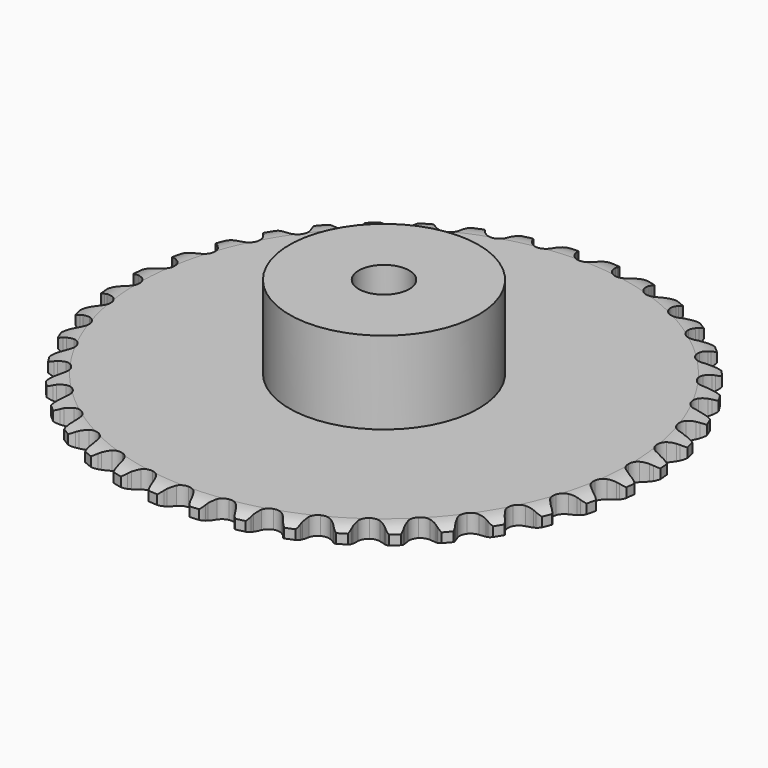
from build123d import *

# Parameters (mm, degrees)
PAD_DEPTH         = 2.9
SKETCH001_R       = 15
PAD001_DEPTH      = 16
SKETCH002_R       = 4
POCKET_DEPTH      = 0.001
POCKET_DEPTH_BACK = 16.001


with BuildPart() as part:
    # Sprocket → Pad (new body)
    with BuildSketch(Plane.XY):
        with BuildLine():
            ThreePointArc((-3.339288, 42.429673), (-2.597272, 41.829726), (-2.116117, 41.005702))
            Line((-2.116117, 41.005702), (-1.955236, 40.561273))
            ThreePointArc((-1.955236, 40.561273), (-1.699458, 39.988133), (-1.363623, 39.457918))
            ThreePointArc((-1.363623, 39.457918), (-0.763524, 38.952141), (0, 38.770596))
            ThreePointArc((0, 38.770596), (0.763524, 38.952141), (1.363623, 39.457918))
            ThreePointArc((1.363623, 39.457918), (1.699458, 39.988133), (1.955236, 40.561273))
            Line((1.955236, 40.561273), (2.116117, 41.005702))
            ThreePointArc((2.116117, 41.005702), (2.597272, 41.829726), (3.339288, 42.429673))
            ThreePointArc((3.339288, 42.429673), (3.978315, 41.721035), (4.324641, 40.831888))
            Line((4.324641, 40.831888), (4.414017, 40.367763))
            ThreePointArc((4.414017, 40.367763), (4.576987, 39.761666), (4.825744, 39.185444))
            ThreePointArc((4.825744, 39.185444), (5.339333, 38.592017), (6.065057, 38.293266))
            ThreePointArc((6.065057, 38.293266), (6.847582, 38.353134), (7.519412, 38.758808))
            Line((7.519412, 38.758808), (8.276345, 39.75603))
            ThreePointArc((8.276345, 39.75603), (8.384915, 39.96604), (8.50477, 40.169821))
            ThreePointArc((8.50477, 40.169821), (9.108906, 40.908429), (9.935639, 41.384914))
            ThreePointArc((9.935639, 41.384914), (10.455943, 40.585034), (10.658912, 39.652657))
            Line((10.658912, 39.652657), (10.674583, 39.180265))
            ThreePointArc((10.674583, 39.180265), (10.740732, 38.556136), (10.896285, 37.948093))
            ThreePointArc((10.896285, 37.948093), (11.310719, 37.28163), (11.980773, 36.873028))
            ThreePointArc((11.980773, 36.873028), (12.763029, 36.809746), (13.49005, 37.105328))
            Line((13.49005, 37.105328), (14.393663, 37.971862))
            ThreePointArc((14.393663, 37.971862), (14.533749, 38.162302), (14.684006, 38.344824))
            ThreePointArc((14.684006, 38.344824), (15.396249, 38.979832), (16.287341, 39.32112))
            ThreePointArc((16.287341, 39.32112), (16.676112, 38.449695), (16.730725, 37.497046))
            Line((16.730725, 37.497046), (16.672304, 37.028018))
            ThreePointArc((16.672304, 37.028018), (16.640004, 36.401225), (16.698524, 35.776335))
            ThreePointArc((16.698524, 35.776335), (17.003597, 35.053245), (17.601482, 34.544854))
            ThreePointArc((17.601482, 34.544854), (18.364207, 34.359979), (19.128517, 34.538191))
            Line((19.128517, 34.538191), (20.156561, 35.252701))
            ThreePointArc((20.156561, 35.252701), (20.324714, 35.418881), (20.501674, 35.575651))
            ThreePointArc((20.501674, 35.575651), (21.304484, 36.091422), (22.237996, 36.289111))
            ThreePointArc((22.237996, 36.289111), (22.485659, 35.367597), (22.390572, 34.418133))
            Line((22.390572, 34.418133), (22.259499, 33.964019))
            ThreePointArc((22.259499, 33.964019), (22.129544, 33.349995), (22.089589, 32.723644))
            ThreePointArc((22.089589, 32.723644), (22.27779, 31.961733), (22.788785, 31.366071))
            ThreePointArc((22.788785, 31.366071), (23.513198, 31.064156), (24.295976, 31.120609))
            Line((24.295976, 31.120609), (25.423138, 31.6655))
            ThreePointArc((25.423138, 31.6655), (25.615217, 31.80333), (25.814522, 31.930488))
            ThreePointArc((25.814522, 31.930488), (26.688133, 32.314321), (27.641077, 32.363543))
            ThreePointArc((27.641077, 32.363543), (27.741534, 31.414631), (27.499089, 30.491731))
            Line((27.499089, 30.491731), (27.298591, 30.063712))
            ThreePointArc((27.298591, 30.063712), (27.074181, 29.477578), (26.936735, 28.865189))
            ThreePointArc((26.936735, 28.865189), (27.00343, 28.083217), (27.414951, 27.414951))
            ThreePointArc((27.414951, 27.414951), (28.083217, 27.00343), (28.865189, 26.936735))
            Line((28.865189, 26.936735), (30.063712, 27.298591))
            ThreePointArc((30.063712, 27.298591), (30.274988, 27.404676), (30.491731, 27.499089))
            ThreePointArc((30.491731, 27.499089), (31.414631, 27.741534), (32.363543, 27.641077))
            ThreePointArc((32.363543, 27.641077), (32.314321, 26.688133), (31.930488, 25.814522))
            Line((31.930488, 25.814522), (31.6655, 25.423138))
            ThreePointArc((31.6655, 25.423138), (31.352163, 24.879325), (31.120609, 24.295976))
            ThreePointArc((31.120609, 24.295976), (31.064156, 23.513198), (31.366071, 22.788785))
            ThreePointArc((31.366071, 22.788785), (31.961733, 22.27779), (32.723644, 22.089589))
            Line((32.723644, 22.089589), (33.964019, 22.259499))
            ThreePointArc((33.964019, 22.259499), (34.189288, 22.331227), (34.418133, 22.390572))
            ThreePointArc((34.418133, 22.390572), (35.367597, 22.485659), (36.289111, 22.237996))
            ThreePointArc((36.289111, 22.237996), (36.091422, 21.304484), (35.575651, 20.501674))
            Line((35.575651, 20.501674), (35.252701, 20.156561))
            ThreePointArc((35.252701, 20.156561), (34.858149, 19.668461), (34.538191, 19.128517))
            ThreePointArc((34.538191, 19.128517), (34.359979, 18.364207), (34.544854, 17.601482))
            ThreePointArc((34.544854, 17.601482), (35.053245, 17.003597), (35.776335, 16.698524))
            Line((35.776335, 16.698524), (37.028018, 16.672304))
            ThreePointArc((37.028018, 16.672304), (37.261735, 16.70791), (37.497046, 16.730725))
            ThreePointArc((37.497046, 16.730725), (38.449695, 16.676112), (39.32112, 16.287341))
            ThreePointArc((39.32112, 16.287341), (38.979832, 15.396249), (38.344824, 14.684006))
            Line((38.344824, 14.684006), (37.971862, 14.393663))
            ThreePointArc((37.971862, 14.393663), (37.505813, 13.973293), (37.105328, 13.49005))
            ThreePointArc((37.105328, 13.49005), (36.809746, 12.763029), (36.873028, 11.980773))
            ThreePointArc((36.873028, 11.980773), (37.28163, 11.310719), (37.948093, 10.896285))
            Line((37.948093, 10.896285), (39.180265, 10.674583))
            ThreePointArc((39.180265, 10.674583), (39.416674, 10.673188), (39.652657, 10.658912))
            ThreePointArc((39.652657, 10.658912), (40.585034, 10.455943), (41.384914, 9.935639))
            ThreePointArc((41.384914, 9.935639), (40.908429, 9.108906), (40.169821, 8.50477))
            Line((40.169821, 8.50477), (39.75603, 8.276345))
            ThreePointArc((39.75603, 8.276345), (39.229959, 7.934057), (38.758808, 7.519412))
            ThreePointArc((38.758808, 7.519412), (38.353134, 6.847582), (38.293266, 6.065057))
            ThreePointArc((38.293266, 6.065057), (38.592017, 5.339333), (39.185444, 4.825744))
            Line((39.185444, 4.825744), (40.367763, 4.414017))
            ThreePointArc((40.367763, 4.414017), (40.601044, 4.375657), (40.831888, 4.324641))
            ThreePointArc((40.831888, 4.324641), (41.721035, 3.978315), (42.429673, 3.339288))
            ThreePointArc((42.429673, 3.339288), (41.829726, 2.597272), (41.005702, 2.116117))
            Line((41.005702, 2.116117), (40.561273, 1.955236))
            ThreePointArc((40.561273, 1.955236), (39.988133, 1.699458), (39.457918, 1.363623))
            ThreePointArc((39.457918, 1.363623), (38.952141, 0.763524), (38.770596, 0))
            ThreePointArc((38.770596, 0), (38.952141, -0.763524), (39.457918, -1.363623))
            Line((39.457918, -1.363623), (40.561273, -1.955236))
            ThreePointArc((40.561273, -1.955236), (40.785682, -2.029617), (41.005702, -2.116117))
            ThreePointArc((41.005702, -2.116117), (41.829726, -2.597272), (42.429673, -3.339288))
            ThreePointArc((42.429673, -3.339288), (41.721035, -3.978315), (40.831888, -4.324641))
            Line((40.831888, -4.324641), (40.367763, -4.414017))
            ThreePointArc((40.367763, -4.414017), (39.761666, -4.576987), (39.185444, -4.825744))
            ThreePointArc((39.185444, -4.825744), (38.592017, -5.339333), (38.293266, -6.065057))
            ThreePointArc((38.293266, -6.065057), (38.353134, -6.847582), (38.758808, -7.519412))
            Line((38.758808, -7.519412), (39.75603, -8.276345))
            ThreePointArc((39.75603, -8.276345), (39.96604, -8.384915), (40.169821, -8.50477))
            ThreePointArc((40.169821, -8.50477), (40.908429, -9.108906), (41.384914, -9.935639))
            ThreePointArc((41.384914, -9.935639), (40.585034, -10.455943), (39.652657, -10.658912))
            Line((39.652657, -10.658912), (39.180265, -10.674583))
            ThreePointArc((39.180265, -10.674583), (38.556136, -10.740732), (37.948093, -10.896285))
            ThreePointArc((37.948093, -10.896285), (37.28163, -11.310719), (36.873028, -11.980773))
            ThreePointArc((36.873028, -11.980773), (36.809746, -12.763029), (37.105328, -13.49005))
            Line((37.105328, -13.49005), (37.971862, -14.393663))
            ThreePointArc((37.971862, -14.393663), (38.162302, -14.533749), (38.344824, -14.684006))
            ThreePointArc((38.344824, -14.684006), (38.979832, -15.396249), (39.32112, -16.287341))
            ThreePointArc((39.32112, -16.287341), (38.449695, -16.676112), (37.497046, -16.730725))
            Line((37.497046, -16.730725), (37.028018, -16.672304))
            ThreePointArc((37.028018, -16.672304), (36.401225, -16.640004), (35.776335, -16.698524))
            ThreePointArc((35.776335, -16.698524), (35.053245, -17.003597), (34.544854, -17.601482))
            ThreePointArc((34.544854, -17.601482), (34.359979, -18.364207), (34.538191, -19.128517))
            Line((34.538191, -19.128517), (35.252701, -20.156561))
            ThreePointArc((35.252701, -20.156561), (35.418881, -20.324714), (35.575651, -20.501674))
            ThreePointArc((35.575651, -20.501674), (36.091422, -21.304484), (36.289111, -22.237996))
            ThreePointArc((36.289111, -22.237996), (35.367597, -22.485659), (34.418133, -22.390572))
            Line((34.418133, -22.390572), (33.964019, -22.259499))
            ThreePointArc((33.964019, -22.259499), (33.349995, -22.129544), (32.723644, -22.089589))
            ThreePointArc((32.723644, -22.089589), (31.961733, -22.27779), (31.366071, -22.788785))
            ThreePointArc((31.366071, -22.788785), (31.064156, -23.513198), (31.120609, -24.295976))
            Line((31.120609, -24.295976), (31.6655, -25.423138))
            ThreePointArc((31.6655, -25.423138), (31.80333, -25.615217), (31.930488, -25.814522))
            ThreePointArc((31.930488, -25.814522), (32.314321, -26.688133), (32.363543, -27.641077))
            ThreePointArc((32.363543, -27.641077), (31.414631, -27.741534), (30.491731, -27.499089))
            Line((30.491731, -27.499089), (30.063712, -27.298591))
            ThreePointArc((30.063712, -27.298591), (29.477578, -27.074181), (28.865189, -26.936735))
            ThreePointArc((28.865189, -26.936735), (28.083217, -27.00343), (27.414951, -27.414951))
            ThreePointArc((27.414951, -27.414951), (27.00343, -28.083217), (26.936735, -28.865189))
            Line((26.936735, -28.865189), (27.298591, -30.063712))
            ThreePointArc((27.298591, -30.063712), (27.404676, -30.274988), (27.499089, -30.491731))
            ThreePointArc((27.499089, -30.491731), (27.741534, -31.414631), (27.641077, -32.363543))
            ThreePointArc((27.641077, -32.363543), (26.688133, -32.314321), (25.814522, -31.930488))
            Line((25.814522, -31.930488), (25.423138, -31.6655))
            ThreePointArc((25.423138, -31.6655), (24.879325, -31.352163), (24.295976, -31.120609))
            ThreePointArc((24.295976, -31.120609), (23.513198, -31.064156), (22.788785, -31.366071))
            ThreePointArc((22.788785, -31.366071), (22.27779, -31.961733), (22.089589, -32.723644))
            Line((22.089589, -32.723644), (22.259499, -33.964019))
            ThreePointArc((22.259499, -33.964019), (22.331227, -34.189288), (22.390572, -34.418133))
            ThreePointArc((22.390572, -34.418133), (22.485659, -35.367597), (22.237996, -36.289111))
            ThreePointArc((22.237996, -36.289111), (21.304484, -36.091422), (20.501674, -35.575651))
            Line((20.501674, -35.575651), (20.156561, -35.252701))
            ThreePointArc((20.156561, -35.252701), (19.668461, -34.858149), (19.128517, -34.538191))
            ThreePointArc((19.128517, -34.538191), (18.364207, -34.359979), (17.601482, -34.544854))
            ThreePointArc((17.601482, -34.544854), (17.003597, -35.053245), (16.698524, -35.776335))
            Line((16.698524, -35.776335), (16.672304, -37.028018))
            ThreePointArc((16.672304, -37.028018), (16.70791, -37.261735), (16.730725, -37.497046))
            ThreePointArc((16.730725, -37.497046), (16.676112, -38.449695), (16.287341, -39.32112))
            ThreePointArc((16.287341, -39.32112), (15.396249, -38.979832), (14.684006, -38.344824))
            Line((14.684006, -38.344824), (14.393663, -37.971862))
            ThreePointArc((14.393663, -37.971862), (13.973293, -37.505813), (13.49005, -37.105328))
            ThreePointArc((13.49005, -37.105328), (12.763029, -36.809746), (11.980773, -36.873028))
            ThreePointArc((11.980773, -36.873028), (11.310719, -37.28163), (10.896285, -37.948093))
            Line((10.896285, -37.948093), (10.674583, -39.180265))
            ThreePointArc((10.674583, -39.180265), (10.673188, -39.416674), (10.658912, -39.652657))
            ThreePointArc((10.658912, -39.652657), (10.455943, -40.585034), (9.935639, -41.384914))
            ThreePointArc((9.935639, -41.384914), (9.108906, -40.908429), (8.50477, -40.169821))
            Line((8.50477, -40.169821), (8.276345, -39.75603))
            ThreePointArc((8.276345, -39.75603), (7.934057, -39.229959), (7.519412, -38.758808))
            ThreePointArc((7.519412, -38.758808), (6.847582, -38.353134), (6.065057, -38.293266))
            ThreePointArc((6.065057, -38.293266), (5.339333, -38.592017), (4.825744, -39.185444))
            Line((4.825744, -39.185444), (4.414017, -40.367763))
            ThreePointArc((4.414017, -40.367763), (4.375657, -40.601044), (4.324641, -40.831888))
            ThreePointArc((4.324641, -40.831888), (3.978315, -41.721035), (3.339288, -42.429673))
            ThreePointArc((3.339288, -42.429673), (2.597272, -41.829726), (2.116117, -41.005702))
            Line((2.116117, -41.005702), (1.955236, -40.561273))
            ThreePointArc((1.955236, -40.561273), (1.699458, -39.988133), (1.363623, -39.457918))
            ThreePointArc((1.363623, -39.457918), (0.763524, -38.952141), (0, -38.770596))
            ThreePointArc((0, -38.770596), (-0.763524, -38.952141), (-1.363623, -39.457918))
            Line((-1.363623, -39.457918), (-1.955236, -40.561273))
            ThreePointArc((-1.955236, -40.561273), (-2.029617, -40.785682), (-2.116117, -41.005702))
            ThreePointArc((-2.116117, -41.005702), (-2.597272, -41.829726), (-3.339288, -42.429673))
            ThreePointArc((-3.339288, -42.429673), (-3.978315, -41.721035), (-4.324641, -40.831888))
            Line((-4.324641, -40.831888), (-4.414017, -40.367763))
            ThreePointArc((-4.414017, -40.367763), (-4.576987, -39.761666), (-4.825744, -39.185444))
            ThreePointArc((-4.825744, -39.185444), (-5.339333, -38.592017), (-6.065057, -38.293266))
            ThreePointArc((-6.065057, -38.293266), (-6.847582, -38.353134), (-7.519412, -38.758808))
            Line((-7.519412, -38.758808), (-8.276345, -39.75603))
            ThreePointArc((-8.276345, -39.75603), (-8.384915, -39.96604), (-8.50477, -40.169821))
            ThreePointArc((-8.50477, -40.169821), (-9.108906, -40.908429), (-9.935639, -41.384914))
            ThreePointArc((-9.935639, -41.384914), (-10.455943, -40.585034), (-10.658912, -39.652657))
            Line((-10.658912, -39.652657), (-10.674583, -39.180265))
            ThreePointArc((-10.674583, -39.180265), (-10.740732, -38.556136), (-10.896285, -37.948093))
            ThreePointArc((-10.896285, -37.948093), (-11.310719, -37.28163), (-11.980773, -36.873028))
            ThreePointArc((-11.980773, -36.873028), (-12.763029, -36.809746), (-13.49005, -37.105328))
            Line((-13.49005, -37.105328), (-14.393663, -37.971862))
            ThreePointArc((-14.393663, -37.971862), (-14.533749, -38.162302), (-14.684006, -38.344824))
            ThreePointArc((-14.684006, -38.344824), (-15.396249, -38.979832), (-16.287341, -39.32112))
            ThreePointArc((-16.287341, -39.32112), (-16.676112, -38.449695), (-16.730725, -37.497046))
            Line((-16.730725, -37.497046), (-16.672304, -37.028018))
            ThreePointArc((-16.672304, -37.028018), (-16.640004, -36.401225), (-16.698524, -35.776335))
            ThreePointArc((-16.698524, -35.776335), (-17.003597, -35.053245), (-17.601482, -34.544854))
            ThreePointArc((-17.601482, -34.544854), (-18.364207, -34.359979), (-19.128517, -34.538191))
            Line((-19.128517, -34.538191), (-20.156561, -35.252701))
            ThreePointArc((-20.156561, -35.252701), (-20.324714, -35.418881), (-20.501674, -35.575651))
            ThreePointArc((-20.501674, -35.575651), (-21.304484, -36.091422), (-22.237996, -36.289111))
            ThreePointArc((-22.237996, -36.289111), (-22.485659, -35.367597), (-22.390572, -34.418133))
            Line((-22.390572, -34.418133), (-22.259499, -33.964019))
            ThreePointArc((-22.259499, -33.964019), (-22.129544, -33.349995), (-22.089589, -32.723644))
            ThreePointArc((-22.089589, -32.723644), (-22.27779, -31.961733), (-22.788785, -31.366071))
            ThreePointArc((-22.788785, -31.366071), (-23.513198, -31.064156), (-24.295976, -31.120609))
            Line((-24.295976, -31.120609), (-25.423138, -31.6655))
            ThreePointArc((-25.423138, -31.6655), (-25.615217, -31.80333), (-25.814522, -31.930488))
            ThreePointArc((-25.814522, -31.930488), (-26.688133, -32.314321), (-27.641077, -32.363543))
            ThreePointArc((-27.641077, -32.363543), (-27.741534, -31.414631), (-27.499089, -30.491731))
            Line((-27.499089, -30.491731), (-27.298591, -30.063712))
            ThreePointArc((-27.298591, -30.063712), (-27.074181, -29.477578), (-26.936735, -28.865189))
            ThreePointArc((-26.936735, -28.865189), (-27.00343, -28.083217), (-27.414951, -27.414951))
            ThreePointArc((-27.414951, -27.414951), (-28.083217, -27.00343), (-28.865189, -26.936735))
            Line((-28.865189, -26.936735), (-30.063712, -27.298591))
            ThreePointArc((-30.063712, -27.298591), (-30.274988, -27.404676), (-30.491731, -27.499089))
            ThreePointArc((-30.491731, -27.499089), (-31.414631, -27.741534), (-32.363543, -27.641077))
            ThreePointArc((-32.363543, -27.641077), (-32.314321, -26.688133), (-31.930488, -25.814522))
            Line((-31.930488, -25.814522), (-31.6655, -25.423138))
            ThreePointArc((-31.6655, -25.423138), (-31.352163, -24.879325), (-31.120609, -24.295976))
            ThreePointArc((-31.120609, -24.295976), (-31.064156, -23.513198), (-31.366071, -22.788785))
            ThreePointArc((-31.366071, -22.788785), (-31.961733, -22.27779), (-32.723644, -22.089589))
            Line((-32.723644, -22.089589), (-33.964019, -22.259499))
            ThreePointArc((-33.964019, -22.259499), (-34.189288, -22.331227), (-34.418133, -22.390572))
            ThreePointArc((-34.418133, -22.390572), (-35.367597, -22.485659), (-36.289111, -22.237996))
            ThreePointArc((-36.289111, -22.237996), (-36.091422, -21.304484), (-35.575651, -20.501674))
            Line((-35.575651, -20.501674), (-35.252701, -20.156561))
            ThreePointArc((-35.252701, -20.156561), (-34.858149, -19.668461), (-34.538191, -19.128517))
            ThreePointArc((-34.538191, -19.128517), (-34.359979, -18.364207), (-34.544854, -17.601482))
            ThreePointArc((-34.544854, -17.601482), (-35.053245, -17.003597), (-35.776335, -16.698524))
            Line((-35.776335, -16.698524), (-37.028018, -16.672304))
            ThreePointArc((-37.028018, -16.672304), (-37.261735, -16.70791), (-37.497046, -16.730725))
            ThreePointArc((-37.497046, -16.730725), (-38.449695, -16.676112), (-39.32112, -16.287341))
            ThreePointArc((-39.32112, -16.287341), (-38.979832, -15.396249), (-38.344824, -14.684006))
            Line((-38.344824, -14.684006), (-37.971862, -14.393663))
            ThreePointArc((-37.971862, -14.393663), (-37.505813, -13.973293), (-37.105328, -13.49005))
            ThreePointArc((-37.105328, -13.49005), (-36.809746, -12.763029), (-36.873028, -11.980773))
            ThreePointArc((-36.873028, -11.980773), (-37.28163, -11.310719), (-37.948093, -10.896285))
            Line((-37.948093, -10.896285), (-39.180265, -10.674583))
            ThreePointArc((-39.180265, -10.674583), (-39.416674, -10.673188), (-39.652657, -10.658912))
            ThreePointArc((-39.652657, -10.658912), (-40.585034, -10.455943), (-41.384914, -9.935639))
            ThreePointArc((-41.384914, -9.935639), (-40.908429, -9.108906), (-40.169821, -8.50477))
            Line((-40.169821, -8.50477), (-39.75603, -8.276345))
            ThreePointArc((-39.75603, -8.276345), (-39.229959, -7.934057), (-38.758808, -7.519412))
            ThreePointArc((-38.758808, -7.519412), (-38.353134, -6.847582), (-38.293266, -6.065057))
            ThreePointArc((-38.293266, -6.065057), (-38.592017, -5.339333), (-39.185444, -4.825744))
            Line((-39.185444, -4.825744), (-40.367763, -4.414017))
            ThreePointArc((-40.367763, -4.414017), (-40.601044, -4.375657), (-40.831888, -4.324641))
            ThreePointArc((-40.831888, -4.324641), (-41.721035, -3.978315), (-42.429673, -3.339288))
            ThreePointArc((-42.429673, -3.339288), (-41.829726, -2.597272), (-41.005702, -2.116117))
            Line((-41.005702, -2.116117), (-40.561273, -1.955236))
            ThreePointArc((-40.561273, -1.955236), (-39.988133, -1.699458), (-39.457918, -1.363623))
            ThreePointArc((-39.457918, -1.363623), (-38.952141, -0.763524), (-38.770596, 0))
            ThreePointArc((-38.770596, 0), (-38.952141, 0.763524), (-39.457918, 1.363623))
            Line((-39.457918, 1.363623), (-40.561273, 1.955236))
            ThreePointArc((-40.561273, 1.955236), (-40.785682, 2.029617), (-41.005702, 2.116117))
            ThreePointArc((-41.005702, 2.116117), (-41.829726, 2.597272), (-42.429673, 3.339288))
            ThreePointArc((-42.429673, 3.339288), (-41.721035, 3.978315), (-40.831888, 4.324641))
            Line((-40.831888, 4.324641), (-40.367763, 4.414017))
            ThreePointArc((-40.367763, 4.414017), (-39.761666, 4.576987), (-39.185444, 4.825744))
            ThreePointArc((-39.185444, 4.825744), (-38.592017, 5.339333), (-38.293266, 6.065057))
            ThreePointArc((-38.293266, 6.065057), (-38.353134, 6.847582), (-38.758808, 7.519412))
            Line((-38.758808, 7.519412), (-39.75603, 8.276345))
            ThreePointArc((-39.75603, 8.276345), (-39.96604, 8.384915), (-40.169821, 8.50477))
            ThreePointArc((-40.169821, 8.50477), (-40.908429, 9.108906), (-41.384914, 9.935639))
            ThreePointArc((-41.384914, 9.935639), (-40.585034, 10.455943), (-39.652657, 10.658912))
            Line((-39.652657, 10.658912), (-39.180265, 10.674583))
            ThreePointArc((-39.180265, 10.674583), (-38.556136, 10.740732), (-37.948093, 10.896285))
            ThreePointArc((-37.948093, 10.896285), (-37.28163, 11.310719), (-36.873028, 11.980773))
            ThreePointArc((-36.873028, 11.980773), (-36.809746, 12.763029), (-37.105328, 13.49005))
            Line((-37.105328, 13.49005), (-37.971862, 14.393663))
            ThreePointArc((-37.971862, 14.393663), (-38.162302, 14.533749), (-38.344824, 14.684006))
            ThreePointArc((-38.344824, 14.684006), (-38.979832, 15.396249), (-39.32112, 16.287341))
            ThreePointArc((-39.32112, 16.287341), (-38.449695, 16.676112), (-37.497046, 16.730725))
            Line((-37.497046, 16.730725), (-37.028018, 16.672304))
            ThreePointArc((-37.028018, 16.672304), (-36.401225, 16.640004), (-35.776335, 16.698524))
            ThreePointArc((-35.776335, 16.698524), (-35.053245, 17.003597), (-34.544854, 17.601482))
            ThreePointArc((-34.544854, 17.601482), (-34.359979, 18.364207), (-34.538191, 19.128517))
            Line((-34.538191, 19.128517), (-35.252701, 20.156561))
            ThreePointArc((-35.252701, 20.156561), (-35.418881, 20.324714), (-35.575651, 20.501674))
            ThreePointArc((-35.575651, 20.501674), (-36.091422, 21.304484), (-36.289111, 22.237996))
            ThreePointArc((-36.289111, 22.237996), (-35.367597, 22.485659), (-34.418133, 22.390572))
            Line((-34.418133, 22.390572), (-33.964019, 22.259499))
            ThreePointArc((-33.964019, 22.259499), (-33.349995, 22.129544), (-32.723644, 22.089589))
            ThreePointArc((-32.723644, 22.089589), (-31.961733, 22.27779), (-31.366071, 22.788785))
            ThreePointArc((-31.366071, 22.788785), (-31.064156, 23.513198), (-31.120609, 24.295976))
            Line((-31.120609, 24.295976), (-31.6655, 25.423138))
            ThreePointArc((-31.6655, 25.423138), (-31.80333, 25.615217), (-31.930488, 25.814522))
            ThreePointArc((-31.930488, 25.814522), (-32.314321, 26.688133), (-32.363543, 27.641077))
            ThreePointArc((-32.363543, 27.641077), (-31.414631, 27.741534), (-30.491731, 27.499089))
            Line((-30.491731, 27.499089), (-30.063712, 27.298591))
            ThreePointArc((-30.063712, 27.298591), (-29.477578, 27.074181), (-28.865189, 26.936735))
            ThreePointArc((-28.865189, 26.936735), (-28.083217, 27.00343), (-27.414951, 27.414951))
            ThreePointArc((-27.414951, 27.414951), (-27.00343, 28.083217), (-26.936735, 28.865189))
            Line((-26.936735, 28.865189), (-27.298591, 30.063712))
            ThreePointArc((-27.298591, 30.063712), (-27.404676, 30.274988), (-27.499089, 30.491731))
            ThreePointArc((-27.499089, 30.491731), (-27.741534, 31.414631), (-27.641077, 32.363543))
            ThreePointArc((-27.641077, 32.363543), (-26.688133, 32.314321), (-25.814522, 31.930488))
            Line((-25.814522, 31.930488), (-25.423138, 31.6655))
            ThreePointArc((-25.423138, 31.6655), (-24.879325, 31.352163), (-24.295976, 31.120609))
            ThreePointArc((-24.295976, 31.120609), (-23.513198, 31.064156), (-22.788785, 31.366071))
            ThreePointArc((-22.788785, 31.366071), (-22.27779, 31.961733), (-22.089589, 32.723644))
            Line((-22.089589, 32.723644), (-22.259499, 33.964019))
            ThreePointArc((-22.259499, 33.964019), (-22.331227, 34.189288), (-22.390572, 34.418133))
            ThreePointArc((-22.390572, 34.418133), (-22.485659, 35.367597), (-22.237996, 36.289111))
            ThreePointArc((-22.237996, 36.289111), (-21.304484, 36.091422), (-20.501674, 35.575651))
            Line((-20.501674, 35.575651), (-20.156561, 35.252701))
            ThreePointArc((-20.156561, 35.252701), (-19.668461, 34.858149), (-19.128517, 34.538191))
            ThreePointArc((-19.128517, 34.538191), (-18.364207, 34.359979), (-17.601482, 34.544854))
            ThreePointArc((-17.601482, 34.544854), (-17.003597, 35.053245), (-16.698524, 35.776335))
            Line((-16.698524, 35.776335), (-16.672304, 37.028018))
            ThreePointArc((-16.672304, 37.028018), (-16.70791, 37.261735), (-16.730725, 37.497046))
            ThreePointArc((-16.730725, 37.497046), (-16.676112, 38.449695), (-16.287341, 39.32112))
            ThreePointArc((-16.287341, 39.32112), (-15.396249, 38.979832), (-14.684006, 38.344824))
            Line((-14.684006, 38.344824), (-14.393663, 37.971862))
            ThreePointArc((-14.393663, 37.971862), (-13.973293, 37.505813), (-13.49005, 37.105328))
            ThreePointArc((-13.49005, 37.105328), (-12.763029, 36.809746), (-11.980773, 36.873028))
            ThreePointArc((-11.980773, 36.873028), (-11.310719, 37.28163), (-10.896285, 37.948093))
            Line((-10.896285, 37.948093), (-10.674583, 39.180265))
            ThreePointArc((-10.674583, 39.180265), (-10.673188, 39.416674), (-10.658912, 39.652657))
            ThreePointArc((-10.658912, 39.652657), (-10.455943, 40.585034), (-9.935639, 41.384914))
            ThreePointArc((-9.935639, 41.384914), (-9.108906, 40.908429), (-8.50477, 40.169821))
            Line((-8.50477, 40.169821), (-8.276345, 39.75603))
            ThreePointArc((-8.276345, 39.75603), (-7.934057, 39.229959), (-7.519412, 38.758808))
            ThreePointArc((-7.519412, 38.758808), (-6.847582, 38.353134), (-6.065057, 38.293266))
            ThreePointArc((-6.065057, 38.293266), (-5.339333, 38.592017), (-4.825744, 39.185444))
            Line((-4.825744, 39.185444), (-4.414017, 40.367763))
            ThreePointArc((-4.414017, 40.367763), (-4.375657, 40.601044), (-4.324641, 40.831888))
            ThreePointArc((-4.324641, 40.831888), (-3.978315, 41.721035), (-3.339288, 42.429673))
        make_face()
    extrude(amount=PAD_DEPTH)

    # Sketch → Groove (revolve, cut)
    with BuildSketch(Plane.XZ):
        with BuildLine():
            Line((38.939674, 0), (41.85, 0))
            Line((44.760326, 0), (41.85, 0))
            Line((44.760326, 2.9), (44.760326, 0))
            Line((41.85, 2.9), (44.760326, 2.9))
            Line((38.939674, 2.9), (41.85, 2.9))
            ThreePointArc((41.85, 2.2), (40.436337, 2.72254), (38.939674, 2.9))
            Line((41.85, 0.7), (41.85, 2.2))
            ThreePointArc((38.939674, 0), (40.436337, 0.17746), (41.85, 0.7))
        make_face()
    revolve(axis=Axis((0, 0, 0), (0, 0, 1)), mode=Mode.SUBTRACT)

    # Sketch001 → Pad001 (join)
    with BuildSketch(Plane.XY):
        Circle(SKETCH001_R)
    extrude(amount=PAD001_DEPTH)

    # Sketch002 → Pocket (cut, two sides)
    with BuildSketch(Plane.XY) as pocket_sk:
        Circle(SKETCH002_R)
    extrude(amount=-POCKET_DEPTH, mode=Mode.SUBTRACT)
    extrude(pocket_sk.sketch, amount=POCKET_DEPTH_BACK, mode=Mode.SUBTRACT)


solid = part.part
